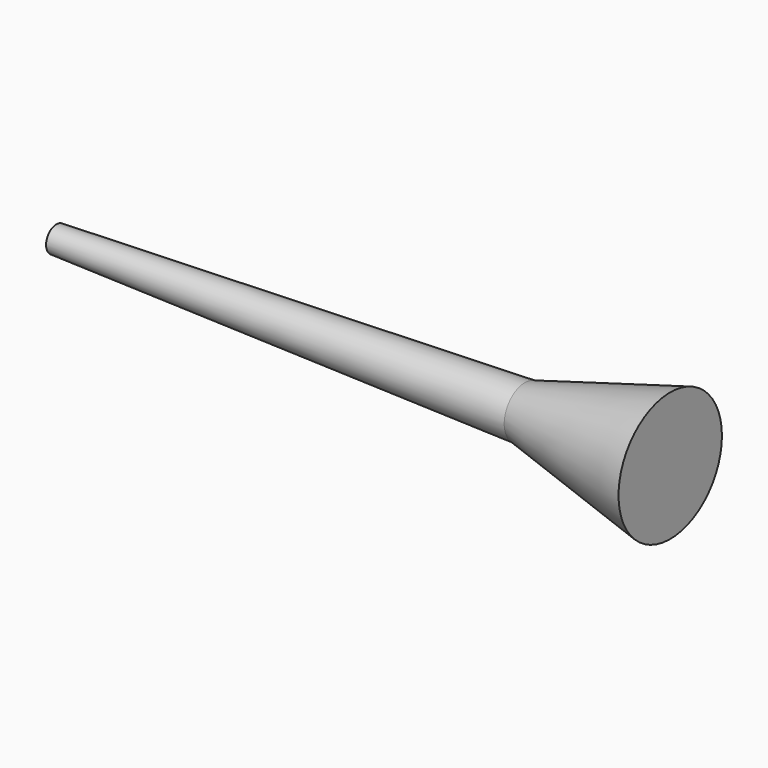
from build123d import *


with BuildPart() as f1:
    # F0 (on Top) → F1 (revolve)
    with BuildSketch(Plane.XY):
        Polygon((-94.084339, 4), (-94.084339, 0), (50.915661, 0), (50.915661, 8), align=None)
        Polygon((50.915661, 8), (50.915661, 0), (95.915661, 0), (95.915661, 20), align=None)
    revolve(axis=Axis((-7.657569, 0, 0), (1, 0, 0)))


solid = f1.part
